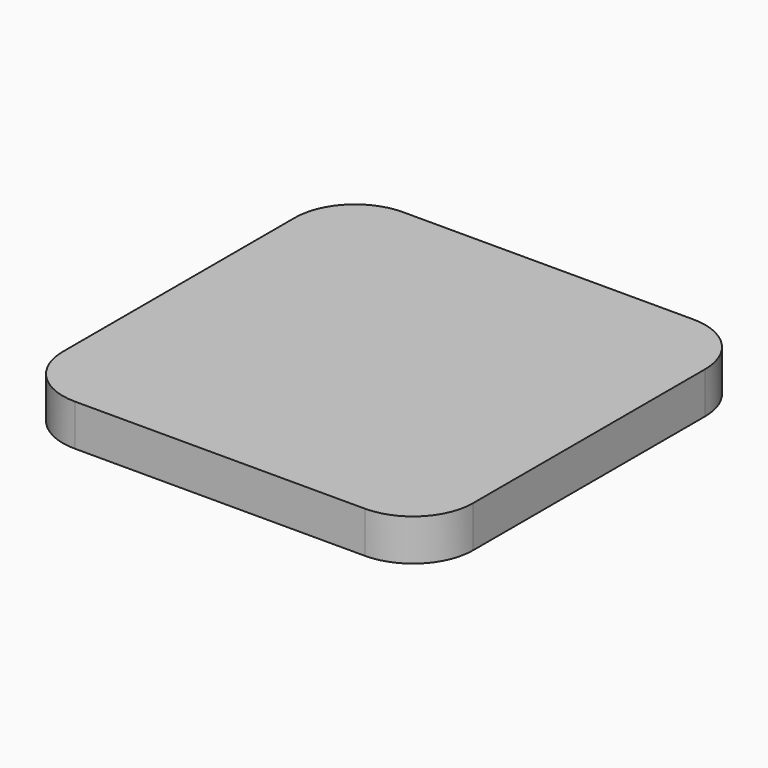
from build123d import *

# Parameters (mm, degrees)
F0_W     = 88.9
F0_H     = 88.9
F1_DEPTH = 4.5
F2_R     = 13


with BuildPart() as f1:
    # F0 (on Top) → F1 (new body, symmetric)
    with BuildSketch(Plane.XY):
        Rectangle(F0_W, F0_H)
    extrude(amount=F1_DEPTH, both=True)

    # F2
    f2_edges = [f1.edges().sort_by_distance(p)[0] for p in [
        (44.45, -44.45, 0),
        (44.45, 44.45, 0),
        (-44.45, 44.45, 0),
        (-44.45, -44.45, 0),
    ]]
    fillet(f2_edges, radius=F2_R)


solid = f1.part
